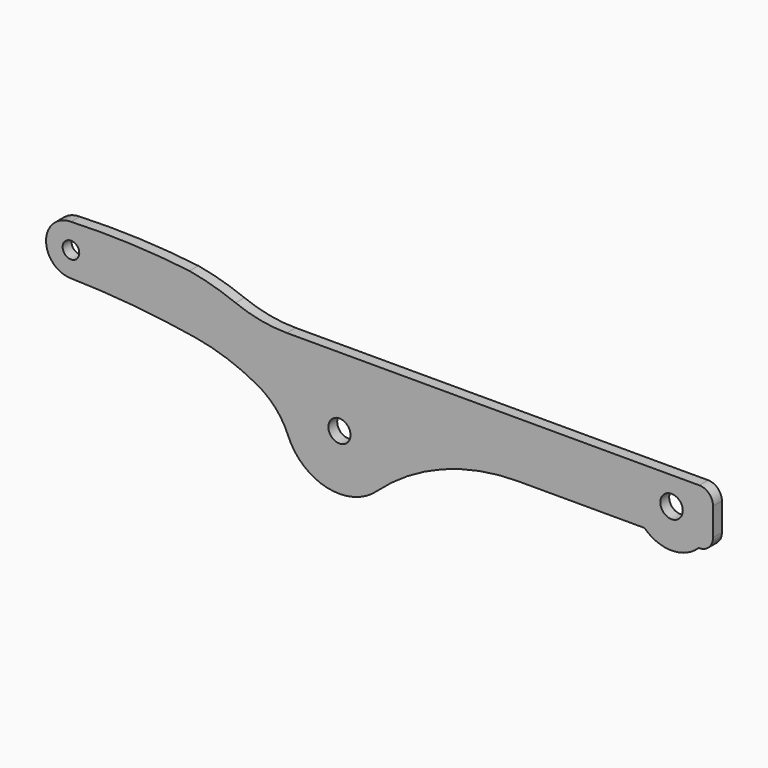
from build123d import *

# Parameters (mm, degrees)
SKETCH_R   = 4
SKETCH_R_2 = 3
SKETCH_R_3 = 4.05
PAD_DEPTH  = 4


with BuildPart() as part:
    # Sketch → Pad (new body)
    with BuildSketch(Plane.XZ):
        with BuildLine():
            ThreePointArc((-18.533333, -7.517683), (-4.421216, -19.505201), (13.480464, -14.774204))
            ThreePointArc((64.49, 5), (37.135878, -0.116509), (13.480464, -14.774204))
            Line((64.49, 5), (110.202041, 5))
            ThreePointArc((110.202041, 5), (120.002802, 1), (129.801962, 5.003923))
            ThreePointArc((129.801962, 5.003923), (133.464809, 6.395129), (135, 10))
            Line((135, 20), (135, 10))
            ThreePointArc((135, 20), (133.535534, 23.535534), (130, 25))
            Line((130, 25), (-19, 25))
            ThreePointArc((-37.518519, 28.555792), (-28.428404, 25.896994), (-19, 25))
            ThreePointArc((-37.518519, 28.555792), (-45.721006, 31.350796), (-54.165443, 33.296133))
            ThreePointArc((-54.165443, 33.296133), (-75.549225, 34.99014), (-97, 35))
            ThreePointArc((-97, 35), (-105.999524, 26.09252), (-97.185031, 17.001902))
            ThreePointArc((-52.210866, 12.81731), (-74.622366, 15.721932), (-97.185031, 17.001902))
            ThreePointArc((-29.649803, 4.989386), (-40.598863, 9.858688), (-52.210866, 12.81731))
            ThreePointArc((-18.533333, -7.517683), (-23.014081, -0.306462), (-29.649803, 4.989386))
        make_face()
        Circle(SKETCH_R, mode=Mode.SUBTRACT)
        with Locations((-97, 26)):
            Circle(SKETCH_R_2, mode=Mode.SUBTRACT)
        with Locations((120, 15)):
            Circle(SKETCH_R_3, mode=Mode.SUBTRACT)
    extrude(amount=PAD_DEPTH)


solid = part.part
